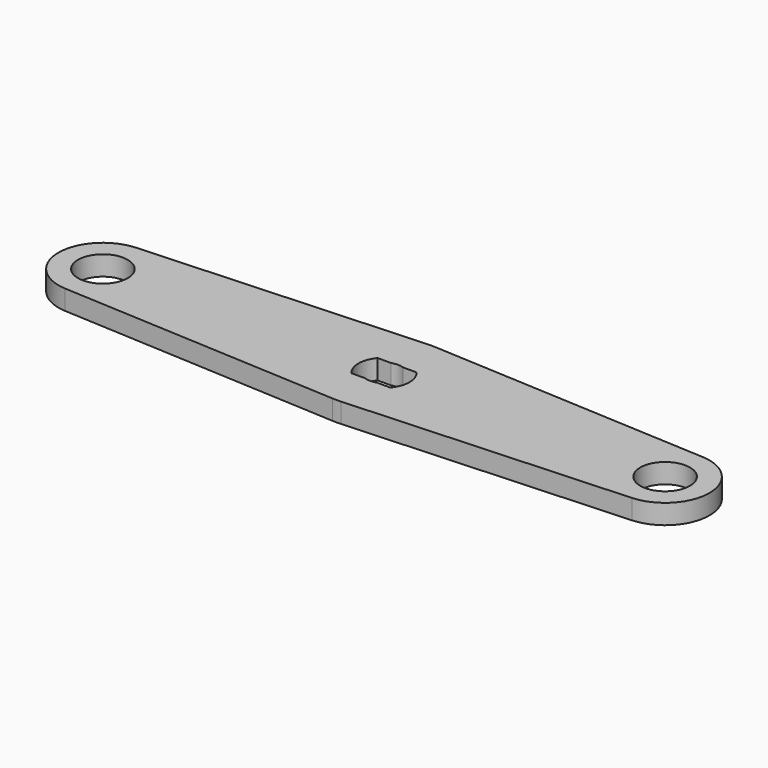
from build123d import *

# Parameters (mm, degrees)
F0_R     = 4.0005
F1_DEPTH = 3.175


with BuildPart() as f1:
    # F0 (on Top) → F1 (new body)
    with BuildSketch(Plane.XY):
        with BuildLine():
            Line((51.721074, -0.035019), (6.762868, -2.397433))
            ThreePointArc((6.762868, -2.397433), (0, -9.525), (6.762868, -16.652567))
            Line((6.762868, -16.652567), (51.721074, -19.014981))
            ThreePointArc((51.721074, -19.014981), (52.3875, -19.032479), (53.053926, -19.014981))
            Line((53.053926, -19.014981), (98.012132, -16.652567))
            ThreePointArc((98.012132, -16.652567), (104.775, -9.525), (98.012132, -2.397433))
            Line((98.012132, -2.397433), (53.053926, -0.035019))
            ThreePointArc((53.053926, -0.035019), (52.3875, -0.017521), (51.721074, -0.035019))
        make_face()
        with Locations((7.1374, -9.525)):
            Circle(F0_R, mode=Mode.SUBTRACT)
        with BuildLine():
            ThreePointArc((49.249161, -12.1666), (48.2854, -9.525), (49.249161, -6.8834))
            Line((49.249161, -6.8834), (51.439073, -6.8834))
            ThreePointArc((51.439073, -6.8834), (52.3875, -6.7183), (53.335927, -6.8834))
            Line((53.335927, -6.8834), (55.525839, -6.8834))
            ThreePointArc((55.525839, -6.8834), (56.4896, -9.525), (55.525839, -12.1666))
            Line((55.525839, -12.1666), (53.335927, -12.1666))
            ThreePointArc((53.335927, -12.1666), (52.3875, -12.3317), (51.439073, -12.1666))
            Line((51.439073, -12.1666), (49.249161, -12.1666))
        make_face(mode=Mode.SUBTRACT)
        with Locations((97.6376, -9.525)):
            Circle(F0_R, mode=Mode.SUBTRACT)
    extrude(amount=-F1_DEPTH)


solid = f1.part
